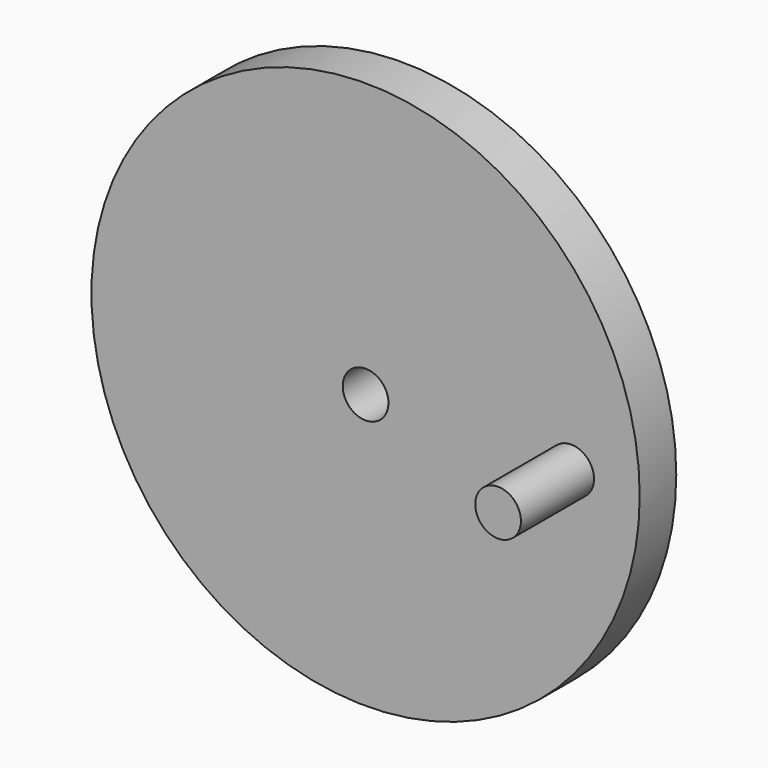
from build123d import *

# Parameters (mm, degrees)
F0_R     = 30
F0_R_2   = 2.5
F1_DEPTH = 5
F2_R     = 2.5
F3_DEPTH = 10


with BuildPart() as f1:
    # F0 (on Front) → F1 (new body)
    with BuildSketch(Plane.XZ):
        Circle(F0_R)
        Circle(F0_R_2, mode=Mode.SUBTRACT)
    extrude(amount=F1_DEPTH)

    # F2 (on face) → F3 (join)
    with BuildSketch(Plane.XZ.offset(5)):
        with Locations((22.5, 0)):
            Circle(F2_R)
    extrude(amount=F3_DEPTH)


solid = f1.part
